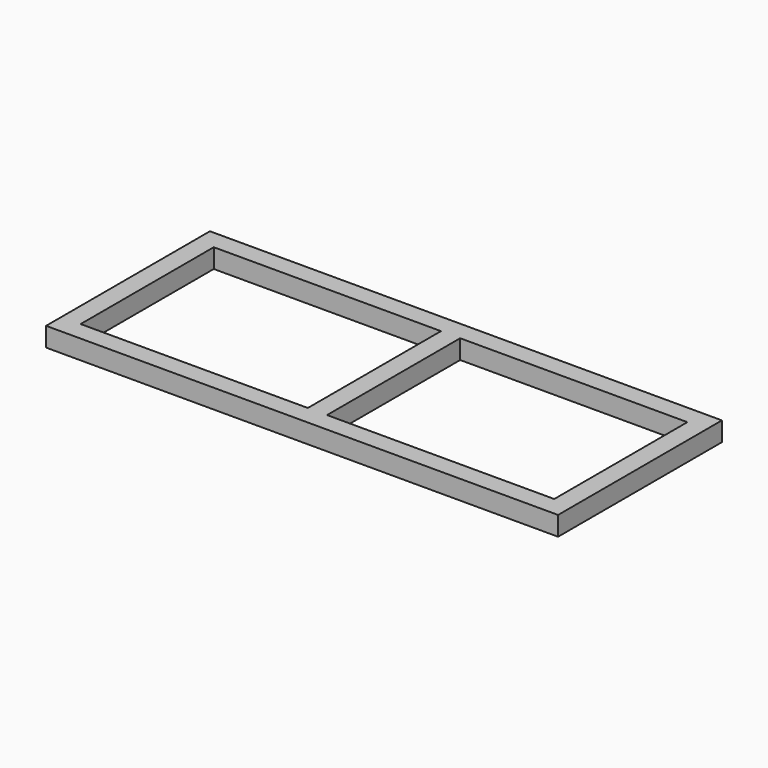
from build123d import *

# Parameters (mm, degrees)
F0_W     = 1016
F0_H     = 406.4
F0_W_2   = 38.1
F0_H_2   = 330.2
F1_DEPTH = 38.1


with BuildPart() as f1:
    # F0 (on Top) → F1 (new body)
    with BuildSketch(Plane.XY):
        Rectangle(F0_W, F0_H)
        Polygon((469.9, 165.1), (469.9, -165.1), (19.05, -165.1), (-19.05, -165.1), (-469.9, -165.1), (-469.9, 165.1), (-19.05, 165.1), (19.05, 165.1), align=None, mode=Mode.SUBTRACT)
        Rectangle(F0_W_2, F0_H_2)
    extrude(amount=F1_DEPTH)


solid = f1.part
